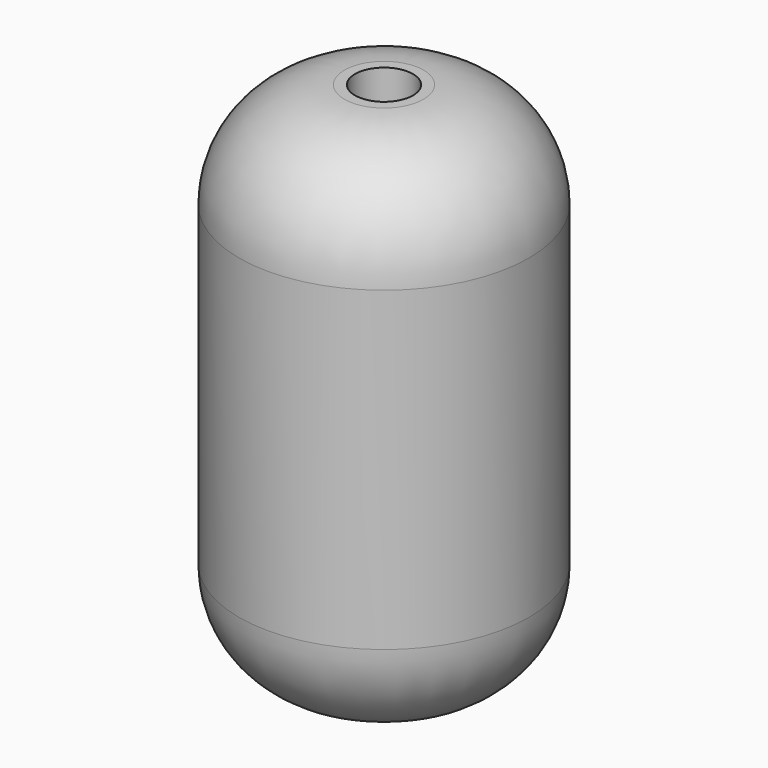
from build123d import *

# Parameters (mm, degrees)
F0_R     = 27.5
F0_R_2   = 19
F0_R_3   = 5.5
F1_DEPTH = 100
F2_R     = 20
F3_R     = 18
F4_DEPTH = 60


with BuildPart() as f1:
    # F0 (on Top) → F1 (new body)
    with BuildSketch(Plane.XY):
        Circle(F0_R)
        Circle(F0_R_2, mode=Mode.SUBTRACT)
        Circle(F0_R_2)
        Circle(F0_R_3, mode=Mode.SUBTRACT)
    extrude(amount=F1_DEPTH)

    # F2
    f2_edges = [f1.edges().sort_by_distance(p)[0] for p in [
        (-27.5, 0, 100),
        (-27.5, 0, 0),
    ]]
    fillet(f2_edges, radius=F2_R)


with BuildPart() as f4:
    # F3 (on Top) → F4 (new body)
    with BuildSketch(Plane.XY):
        Circle(F3_R)
    extrude(amount=F4_DEPTH)


with BuildPart() as f1_1:
    add(f1.part)

    # F5: cut F4
    add(f4.part, mode=Mode.SUBTRACT)


solid = f1_1.part
